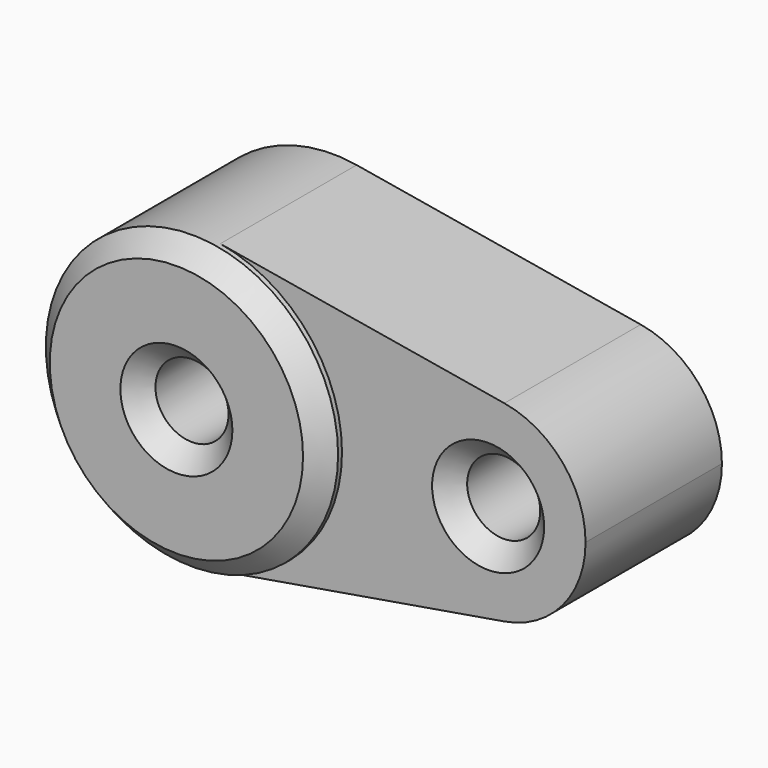
from build123d import *

# Parameters (mm, degrees)
F0_R     = 9.525
F1_DEPTH = 30.6987799704
F1_TAPER = 3
F2_DEPTH = 50.8
F3_DEPTH = 44.45
F4_SIZE  = 5.08


with BuildPart() as f1:
    # F0 (on Front) → F1 (new body)
    with BuildSketch(Plane.XZ):
        with BuildLine():
            ThreePointArc((6.35, -37.5671066227), (29.099355663, -24.5934442484), (38.1, 0))
            ThreePointArc((38.1, 0), (29.099355663, 24.5934442484), (6.35, 37.5671066227))
            ThreePointArc((6.35, 37.5671066227), (-38.1, 0), (6.35, -37.5671066227))
        make_face()
        Circle(F0_R, mode=Mode.SUBTRACT)
    extrude(amount=F1_DEPTH, taper=F1_TAPER)

    # F0 (on Front) → F2 (join)
    with BuildSketch(Plane.XZ):
        with BuildLine():
            ThreePointArc((6.35, -37.5671066227), (29.099355663, -24.5934442484), (38.1, 0))
            ThreePointArc((38.1, 0), (29.099355663, 24.5934442484), (6.35, 37.5671066227))
            ThreePointArc((6.35, 37.5671066227), (-38.1, 0), (6.35, -37.5671066227))
        make_face()
        Circle(F0_R, mode=Mode.SUBTRACT)
    extrude(amount=F2_DEPTH)

    # F0 (on Front) → F3 (join)
    with BuildSketch(Plane.XZ):
        with BuildLine():
            ThreePointArc((6.35, 37.5671066227), (29.099355663, 24.5934442484), (38.1, 0))
            ThreePointArc((38.1, 0), (29.099355663, -24.5934442484), (6.35, -37.5671066227))
            Line((6.35, -37.5671066227), (80.4333333333, -25.0447377485))
            ThreePointArc((80.4333333333, -25.0447377485), (50.8, 0), (80.4333333333, 25.0447377485))
            Line((80.4333333333, 25.0447377485), (6.35, 37.5671066227))
        make_face()
        with BuildLine():
            ThreePointArc((101.6, 0), (95.599570442, 16.3956294989), (80.4333333333, 25.0447377485))
            ThreePointArc((80.4333333333, 25.0447377485), (50.8, 0), (80.4333333333, -25.0447377485))
            ThreePointArc((80.4333333333, -25.0447377485), (95.599570442, -16.3956294989), (101.6, 0))
        make_face()
        with Locations((76.2, 0)):
            Circle(F0_R, mode=Mode.SUBTRACT)
    extrude(amount=F3_DEPTH)

    # F4
    f4_edges = [f1.edges().sort_by_distance(p)[0] for p in [
        (-9.525, -50.8, 0),
        (-6.35, -50.8, 37.567107),
        (66.675, -44.45, 0),
    ]]
    chamfer(f4_edges, length=F4_SIZE)


solid = f1.part
